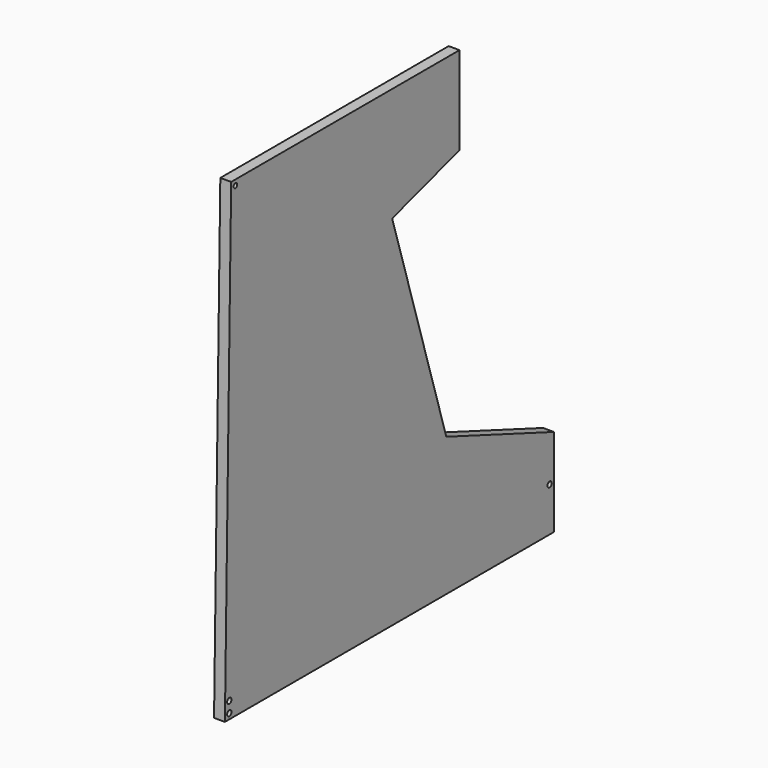
from build123d import *

# Parameters (mm, degrees)
F0_R     = 3
F0_R_2   = 2.5
F1_DEPTH = 12


with BuildPart() as f1:
    # F0 (on Right) → F1 (new body)
    with BuildSketch(Plane.YZ):
        Polygon((352.110505, -409.55967), (343.453952, -931.376957), (797.953952, -931.376957), (797.953952, -834.047068), (649.286807, -778.287018), (574.506055, -535.544687), (667.522135, -506.88956), (667.522135, -409.55967), align=None)
        with Locations((349.553488, -925.376957)):
            Circle(F0_R, mode=Mode.SUBTRACT)
        with Locations((349.553488, -913.376957)):
            Circle(F0_R, mode=Mode.SUBTRACT)
        with Locations((791.953952, -882.712013)):
            Circle(F0_R, mode=Mode.SUBTRACT)
        with Locations((358.01097, -415.55967)):
            Circle(F0_R_2, mode=Mode.SUBTRACT)
    extrude(amount=F1_DEPTH)


solid = f1.part
